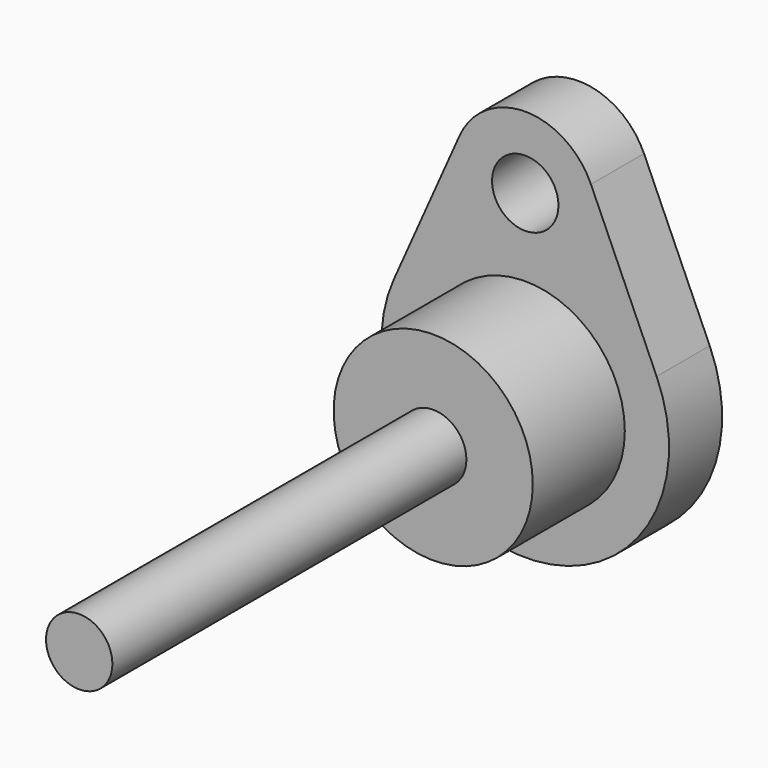
from build123d import *

# Parameters (mm, degrees)
F0_R     = 1.5
F1_DEPTH = 3
F2_R     = 4.5
F3_DEPTH = 5.2
F4_R     = 1.5
F5_DEPTH = 20


with BuildPart() as f1:
    # F0 (on Front) → F1 (new body)
    with BuildSketch(Plane.XZ):
        with BuildLine():
            Line((5.9394528039, 2.640625), (2.9697264019, 9.3203125))
            ThreePointArc((2.9697264019, 9.3203125), (0, 11.25), (-2.9697264019, 9.3203125))
            Line((-2.9697264019, 9.3203125), (-5.9394528039, 2.640625))
            ThreePointArc((-5.9394528039, 2.640625), (0, -6.5), (5.9394528039, 2.640625))
        make_face()
        with Locations((0, 8)):
            Circle(F0_R, mode=Mode.SUBTRACT)
    extrude(amount=-F1_DEPTH)

    # F2 (on face) → F3 (join)
    with BuildSketch(Plane.XZ):
        Circle(F2_R)
    extrude(amount=F3_DEPTH)

    # F4 (on face) → F5 (join)
    with BuildSketch(Plane.XZ.offset(5.2)):
        Circle(F4_R)
    extrude(amount=F5_DEPTH)


solid = f1.part
